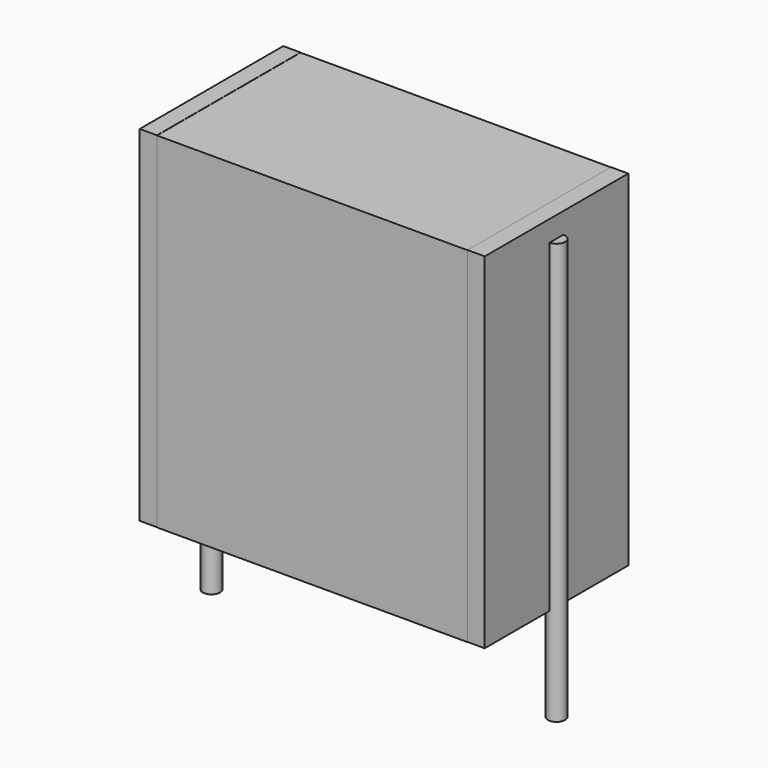
from build123d import *

# Parameters (mm, degrees)
SKETCH_W          = 9
SKETCH_H          = 5.2
PAD_DEPTH         = 10
SKETCH001_R       = 0.25
PAD001_DEPTH      = 9
PAD001_DEPTH_BACK = 3.2
SKETCH002_W       = 0.5
SKETCH002_H       = 5.2
PAD002_DEPTH      = 10


with BuildPart() as pad:
    # Sketch → Pad (new body)
    with BuildSketch(Plane.XY.offset(0.1)):
        with Locations((5, 0)):
            Rectangle(SKETCH_W, SKETCH_H)
    extrude(amount=PAD_DEPTH)


with BuildPart() as pad001:
    # Sketch001 → Pad001 (new body, two sides)
    with BuildSketch(Plane.XY.offset(0.5)) as pad001_sk:
        Circle(SKETCH001_R)
        with Locations((10, 0)):
            Circle(SKETCH001_R)
    extrude(amount=PAD001_DEPTH)
    extrude(pad001_sk.sketch, amount=-PAD001_DEPTH_BACK)


with BuildPart() as pad002:
    # Sketch002 → Pad002 (new body)
    with BuildSketch(Plane.XY.offset(0.105)):
        with Locations((0.25, 0)):
            Rectangle(SKETCH002_W, SKETCH002_H)
        with Locations((9.75, 0)):
            Rectangle(SKETCH002_W, SKETCH002_H)
    extrude(amount=PAD002_DEPTH)


solid = Compound([pad.part, pad001.part, pad002.part])
